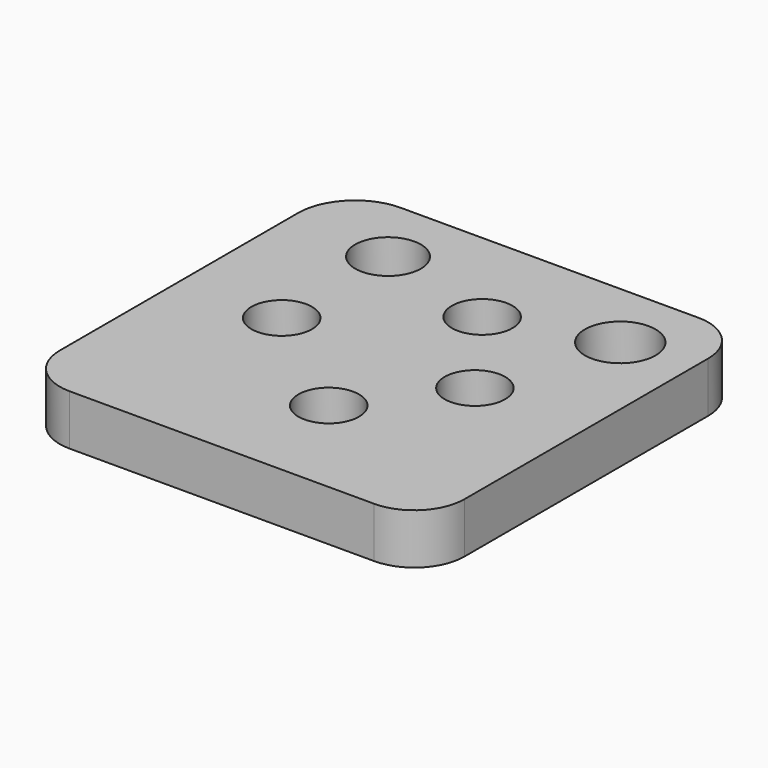
from build123d import *

# Parameters (mm, degrees)
PAD002_DEPTH    = 5
SKETCH004_R     = 3
POCKET001_DEPTH = 5.001
SKETCH006_R     = 3
POCKET002_DEPTH = 5.001
SKETCH007_R     = 3.5
POCKET003_DEPTH = 5.001
SKETCH008_R     = 3.25
POCKET004_DEPTH = 5.001


with BuildPart() as part:
    # Sketch003 → Pad002 (new body)
    with BuildSketch(Plane.XY):
        with BuildLine():
            Line((5.656854, -20), (35.143146, -20))
            ThreePointArc((40, -24.856854), (38.57746, -21.42254), (35.143146, -20))
            Line((40, -24.856854), (40, -55.030009))
            ThreePointArc((35.030009, -60), (38.544323, -58.544323), (40, -55.030009))
            Line((35.030009, -60), (4.856854, -60))
            ThreePointArc((0, -55.143146), (1.42254, -58.57746), (4.856854, -60))
            Line((0, -55.143146), (0, -25.656854))
            ThreePointArc((5.656854, -20), (1.656854, -21.656854), (0, -25.656854))
        make_face()
    extrude(amount=PAD002_DEPTH)

    # Sketch004 (on Face10 of Pad002) → Pocket001 (cut, through all)
    with BuildSketch(Plane.XY.offset(5)):
        with Locations((22, -49.34482)):
            Circle(SKETCH004_R)
        with Locations((22, -30.34482)):
            Circle(SKETCH004_R)
    extrude(amount=-POCKET001_DEPTH, mode=Mode.SUBTRACT)

    # Sketch006 (on Face5 of Pocket001) → Pocket002 (cut, through all)
    with BuildSketch(Plane.XY.offset(5)):
        with Locations((10, -40.165066)):
            Circle(SKETCH006_R)
        with Locations((29, -39.995171)):
            Circle(SKETCH006_R)
    extrude(amount=-POCKET002_DEPTH, mode=Mode.SUBTRACT)

    # Sketch007 (on Face5 of Pocket002) → Pocket003 (cut, through all)
    with BuildSketch(Plane.XY.offset(5)):
        with Locations((33, -27)):
            Circle(SKETCH007_R)
    extrude(amount=-POCKET003_DEPTH, mode=Mode.SUBTRACT)

    # Sketch008 (on Face5 of Pocket003) → Pocket004 (cut, through all)
    with BuildSketch(Plane.XY.offset(5)):
        with Locations((10, -27)):
            Circle(SKETCH008_R)
    extrude(amount=-POCKET004_DEPTH, mode=Mode.SUBTRACT)


solid = part.part
